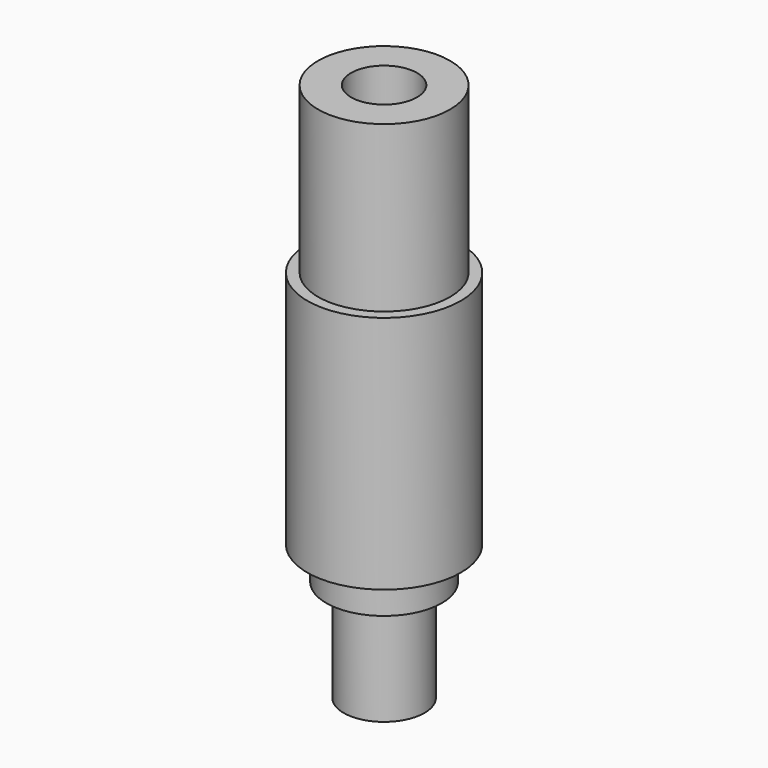
from build123d import *

# Parameters (mm, degrees)
F0_R     = 4.65
F1_DEPTH = 14.5
F2_R     = 4
F3_DEPTH = 10
F4_R     = 2
F5_DEPTH = 17
F6_R     = 3.5
F7_DEPTH = 2
F8_R     = 2.45
F9_DEPTH = 6.2


with BuildPart() as f1:
    # F0 (on Top) → F1 (new body)
    with BuildSketch(Plane.XY):
        Circle(F0_R)
    extrude(amount=F1_DEPTH)

    # F2 (on face) → F3 (join)
    with BuildSketch(Plane.XY.offset(14.5)):
        Circle(F2_R)
    extrude(amount=F3_DEPTH)

    # F4 (on face) → F5 (cut)
    with BuildSketch(Plane.XY.offset(24.5)):
        Circle(F4_R)
    extrude(amount=-F5_DEPTH, mode=Mode.SUBTRACT)

    # F6 (on face) → F7 (join)
    with BuildSketch(Plane(origin=(0, 0, 0), x_dir=(1, 0, 0), z_dir=(0, 0, -1))):
        Circle(F6_R)
    extrude(amount=F7_DEPTH)

    # F8 (on face) → F9 (join)
    with BuildSketch(Plane(origin=(0, 0, -2), x_dir=(1, 0, 0), z_dir=(0, 0, -1))):
        Circle(F8_R)
    extrude(amount=F9_DEPTH)


solid = f1.part
